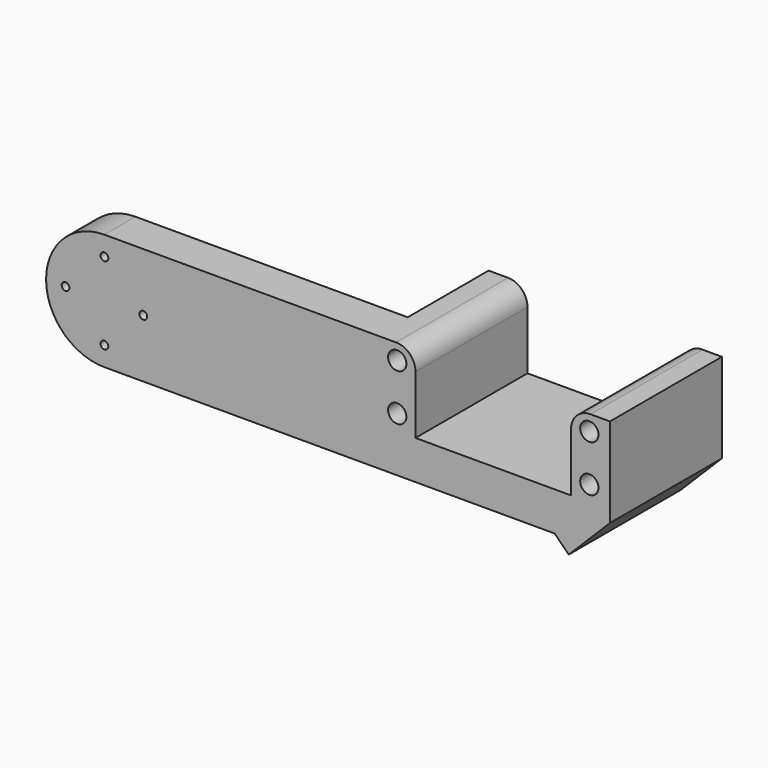
from build123d import *

# Parameters (mm, degrees)
F0_R     = 1
F0_R_2   = 2.35
F1_DEPTH = 36
F2_W     = 98.13832
F2_H     = 30
F3_DEPTH = 26
F4_R     = 5
F5_SIZE  = 7
F7_DEPTH = 36


with BuildPart() as f1:
    # F0 (on Front) → F1 (new body)
    with BuildSketch(Plane.XZ):
        with BuildLine():
            Line((80, 15), (0, 15))
            ThreePointArc((0, 15), (-15, 0), (0, -15))
            Line((0, -15), (130, -15))
            Line((130, -15), (130, 15))
            Line((130, 15), (120, 15))
            Line((120, 15), (120, -5))
            Line((120, -5), (80, -5))
            Line((80, -5), (80, 15))
        make_face()
        with Locations((0, -10)):
            Circle(F0_R, mode=Mode.SUBTRACT)
        with Locations((75.3, -1)):
            Circle(F0_R_2, mode=Mode.SUBTRACT)
        with Locations((124.7, -1)):
            Circle(F0_R_2, mode=Mode.SUBTRACT)
        with Locations((-10, 0)):
            Circle(F0_R, mode=Mode.SUBTRACT)
        with Locations((10, 0)):
            Circle(F0_R, mode=Mode.SUBTRACT)
        with Locations((0, 10)):
            Circle(F0_R, mode=Mode.SUBTRACT)
        with Locations((75.3, 11)):
            Circle(F0_R_2, mode=Mode.SUBTRACT)
        with Locations((124.7, 11)):
            Circle(F0_R_2, mode=Mode.SUBTRACT)
    extrude(amount=F1_DEPTH)

    # F2 (on face) → F3 (cut)
    with BuildSketch(Plane(origin=(0, 0, 0), x_dir=(-1, 0, 0), z_dir=(0, 1, 0))):
        with Locations((-20.93084, 0)):
            Rectangle(F2_W, F2_H)
    extrude(amount=-F3_DEPTH, mode=Mode.SUBTRACT)

    # F4
    f4_edges = [f1.edges().sort_by_distance(p)[0] for p in [
        (80, -18, 15),
        (120, -18, 15),
    ]]
    fillet(f4_edges, radius=F4_R)

    # F5
    f5_edges = [f1.edges().sort_by_distance(p)[0] for p in [
        (130, -18, -15),
    ]]
    chamfer(f5_edges, length=F5_SIZE)

    # F6 (on face) → F7 (join)
    with BuildSketch(Plane.XZ.offset(36)):
        Polygon((119.393398, -18.606602), (123, -15), (115.786797, -15), align=None)
    extrude(amount=-F7_DEPTH)


solid = f1.part
